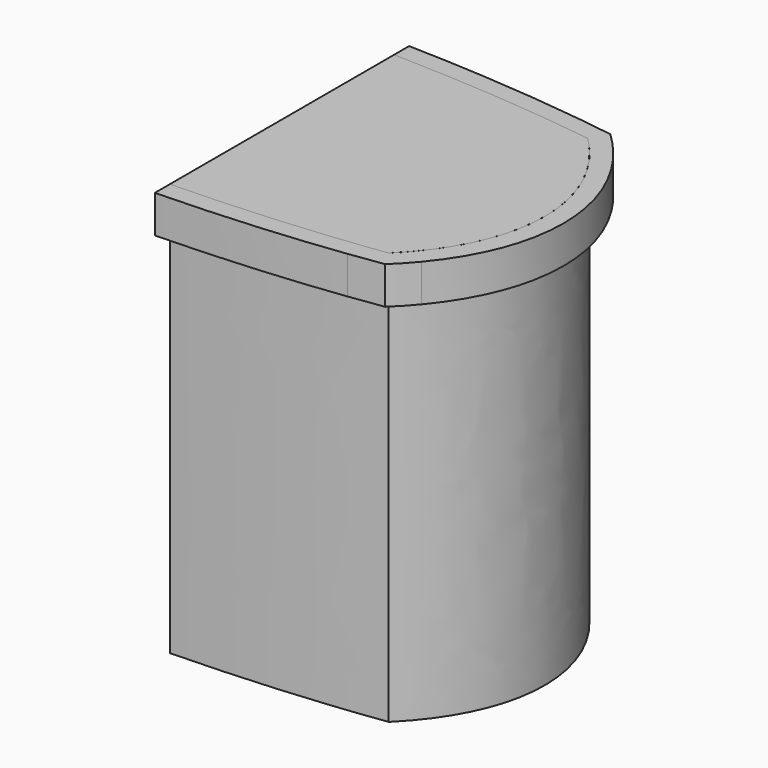
from build123d import *

# Parameters (mm, degrees)
F1_START = 5
F1_DEPTH = 21
F2_START = 25
F2_DEPTH = 2
F3_START = 26
F3_DEPTH = 1


with BuildPart() as f1:
    # F0 (on Top) → F1 (new body)
    with BuildSketch(Plane.XY.offset(F1_START)):
        with BuildLine():
            Line((2.5, 0), (2.5, -7.471590807))
            add(Edge.make_bspline(
                [(2.5, -7.471590807), (8.3249735983, -7.3389528818), (13.4886153342, -6.6233121014)],
                knots=[1.6578628091, 1.6578628091, 1.6578628091, 2.0591461343, 2.0591461343, 2.0591461343], degree=2, weights=[1, 0.9799388974, 1]))
            add(Edge.make_bspline(
                [(13.4886153342, -6.6233121014), (16.5, -3.6442045908), (16.5, 0)],
                knots=[5.6694315423, 5.6694315423, 5.6694315423, 6.2831853072, 6.2831853072, 6.2831853072], degree=2, weights=[1, 0.9532816579, 1]))
            Line((16.5, 0), (2.5, 0))
        make_face()
        with BuildLine():
            add(Edge.make_bspline(
                [(13.4886153342, 6.6233121014), (8.3249735983, 7.3389528818), (2.5, 7.471590807)],
                knots=[4.2240391728, 4.2240391728, 4.2240391728, 4.625322498, 4.625322498, 4.625322498], degree=2, weights=[1, 0.9799388974, 1]))
            Line((2.5, 7.471590807), (2.5, 0))
            Line((2.5, 0), (16.5, 0))
            add(Edge.make_bspline(
                [(16.5, 0), (16.5, 3.6442045908), (13.4886153342, 6.6233121014)],
                knots=[0, 0, 0, 0.6137537649, 0.6137537649, 0.6137537649], degree=2, weights=[1, 0.9532816579, 1]))
        make_face()
    extrude(amount=F1_DEPTH)

    # F0 (on Top) → F2 (join)
    with BuildSketch(Plane.XY.offset(F2_START)):
        with BuildLine():
            add(Edge.make_bspline(
                [(2.5, -7.471590807), (8.3249735983, -7.3389528818), (13.4886153342, -6.6233121014)],
                knots=[1.6578628091, 1.6578628091, 1.6578628091, 2.0591461343, 2.0591461343, 2.0591461343], degree=2, weights=[1, 0.9799388974, 1]))
            Line((2.5, -7.471590807), (2.5, -8.4699348237))
            add(Edge.make_bspline(
                [(2.5, -8.4699348237), (7.5558884443, -8.3481140554), (12.1846448126, -7.754376938)],
                knots=[1.6549291585, 1.6549291585, 1.6549291585, 1.9927766821, 1.9927766821, 1.9927766821], degree=2, weights=[1, 0.9857662766, 1]))
            add(Edge.make_bspline(
                [(12.1846448126, -7.754376938), (12.887920486, -7.217568476), (13.4886153342, -6.6233121014)],
                knots=[5.5431775409, 5.5431775409, 5.5431775409, 5.6694315423, 5.6694315423, 5.6694315423], degree=2, weights=[1, 0.9980081525, 1]))
        make_face()
        with BuildLine():
            Line((2.5, 8.4699348237), (2.5, 7.471590807))
            add(Edge.make_bspline(
                [(13.4886153342, 6.6233121014), (8.3249735983, 7.3389528818), (2.5, 7.471590807)],
                knots=[4.2240391728, 4.2240391728, 4.2240391728, 4.625322498, 4.625322498, 4.625322498], degree=2, weights=[1, 0.9799388974, 1]))
            add(Edge.make_bspline(
                [(13.4886153342, 6.6233121014), (12.887920486, 7.217568476), (12.1846448126, 7.754376938)],
                knots=[0.6137537649, 0.6137537649, 0.6137537649, 0.7400077663, 0.7400077663, 0.7400077663], degree=2, weights=[1, 0.9980081525, 1]))
            add(Edge.make_bspline(
                [(12.1846448126, 7.754376938), (7.5558884443, 8.3481140554), (2.5, 8.4699348237)],
                knots=[4.290408625, 4.290408625, 4.290408625, 4.6282561487, 4.6282561487, 4.6282561487], degree=2, weights=[1, 0.9857662766, 1]))
        make_face()
        with BuildLine():
            add(Edge.make_bspline(
                [(13.4886153342, -6.6233121014), (14.2775033671, -6.5139783257), (15.0388497278, -6.3920789177)],
                knots=[2.0591461343, 2.0591461343, 2.0591461343, 2.1212693394, 2.1212693394, 2.1212693394], degree=2, weights=[1, 0.9995176272, 1]))
            add(Edge.make_bspline(
                [(15.0388497278, -6.3920789177), (17.5, -3.4377792084), (17.5, 0)],
                knots=[2.6048186996, 2.6048186996, 2.6048186996, 3.1415926536, 3.1415926536, 3.1415926536], degree=2, weights=[1, 0.9641998863, 1]))
            Line((17.5, 0), (16.5, 0))
            add(Edge.make_bspline(
                [(13.4886153342, -6.6233121014), (16.5, -3.6442045908), (16.5, 0)],
                knots=[5.6694315423, 5.6694315423, 5.6694315423, 6.2831853072, 6.2831853072, 6.2831853072], degree=2, weights=[1, 0.9532816579, 1]))
        make_face()
        with BuildLine():
            add(Edge.make_bspline(
                [(17.5, 0), (17.5, 3.4377792084), (15.0388497278, 6.3920789177)],
                knots=[3.1415926536, 3.1415926536, 3.1415926536, 3.6783666076, 3.6783666076, 3.6783666076], degree=2, weights=[1, 0.9641998863, 1]))
            add(Edge.make_bspline(
                [(15.0388497278, 6.3920789177), (14.2775033671, 6.5139783257), (13.4886153342, 6.6233121014)],
                knots=[4.1619159677, 4.1619159677, 4.1619159677, 4.2240391728, 4.2240391728, 4.2240391728], degree=2, weights=[1, 0.9995176272, 1]))
            add(Edge.make_bspline(
                [(16.5, 0), (16.5, 3.6442045908), (13.4886153342, 6.6233121014)],
                knots=[0, 0, 0, 0.6137537649, 0.6137537649, 0.6137537649], degree=2, weights=[1, 0.9532816579, 1]))
            Line((16.5, 0), (17.5, 0))
        make_face()
        with BuildLine():
            add(Edge.make_bspline(
                [(12.1846448126, -7.754376938), (13.1074585373, -7.6360063181), (14, -7.5)],
                knots=[1.9927766821, 1.9927766821, 1.9927766821, 2.060753653, 2.060753653, 2.060753653], degree=2, weights=[1, 0.999422447, 1]))
            add(Edge.make_bspline(
                [(14, -7.5), (14.5608500358, -6.9658571088), (15.0388497278, -6.3920789177)],
                knots=[2.4980915448, 2.4980915448, 2.4980915448, 2.6048186996, 2.6048186996, 2.6048186996], degree=2, weights=[1, 0.9985765022, 1]))
            add(Edge.make_bspline(
                [(13.4886153342, -6.6233121014), (14.2775033671, -6.5139783257), (15.0388497278, -6.3920789177)],
                knots=[2.0591461343, 2.0591461343, 2.0591461343, 2.1212693394, 2.1212693394, 2.1212693394], degree=2, weights=[1, 0.9995176272, 1]))
            add(Edge.make_bspline(
                [(12.1846448126, -7.754376938), (12.887920486, -7.217568476), (13.4886153342, -6.6233121014)],
                knots=[5.5431775409, 5.5431775409, 5.5431775409, 5.6694315423, 5.6694315423, 5.6694315423], degree=2, weights=[1, 0.9980081525, 1]))
        make_face()
        with BuildLine():
            add(Edge.make_bspline(
                [(15.0388497278, 6.3920789177), (14.5608500358, 6.9658571088), (14, 7.5)],
                knots=[3.6783666076, 3.6783666076, 3.6783666076, 3.7850937624, 3.7850937624, 3.7850937624], degree=2, weights=[1, 0.9985765022, 1]))
            add(Edge.make_bspline(
                [(14, 7.5), (13.1074585373, 7.6360063181), (12.1846448126, 7.754376938)],
                knots=[4.2224316541, 4.2224316541, 4.2224316541, 4.290408625, 4.290408625, 4.290408625], degree=2, weights=[1, 0.999422447, 1]))
            add(Edge.make_bspline(
                [(13.4886153342, 6.6233121014), (12.887920486, 7.217568476), (12.1846448126, 7.754376938)],
                knots=[0.6137537649, 0.6137537649, 0.6137537649, 0.7400077663, 0.7400077663, 0.7400077663], degree=2, weights=[1, 0.9980081525, 1]))
            add(Edge.make_bspline(
                [(15.0388497278, 6.3920789177), (14.2775033671, 6.5139783257), (13.4886153342, 6.6233121014)],
                knots=[4.1619159677, 4.1619159677, 4.1619159677, 4.2240391728, 4.2240391728, 4.2240391728], degree=2, weights=[1, 0.9995176272, 1]))
        make_face()
    extrude(amount=F2_DEPTH)


with BuildPart() as f3:
    # F0 (on Top) → F3 (new body)
    with BuildSketch(Plane.XY.offset(F3_START)):
        with BuildLine():
            add(Edge.make_bspline(
                [(13.4886153342, 6.6233121014), (8.3249735983, 7.3389528818), (2.5, 7.471590807)],
                knots=[4.2240391728, 4.2240391728, 4.2240391728, 4.625322498, 4.625322498, 4.625322498], degree=2, weights=[1, 0.9799388974, 1]))
            Line((2.5, 7.471590807), (2.5, 0))
            Line((2.5, 0), (16.5, 0))
            add(Edge.make_bspline(
                [(16.5, 0), (16.5, 3.6442045908), (13.4886153342, 6.6233121014)],
                knots=[0, 0, 0, 0.6137537649, 0.6137537649, 0.6137537649], degree=2, weights=[1, 0.9532816579, 1]))
        make_face()
        with BuildLine():
            Line((2.5, 0), (2.5, -7.471590807))
            add(Edge.make_bspline(
                [(2.5, -7.471590807), (8.3249735983, -7.3389528818), (13.4886153342, -6.6233121014)],
                knots=[1.6578628091, 1.6578628091, 1.6578628091, 2.0591461343, 2.0591461343, 2.0591461343], degree=2, weights=[1, 0.9799388974, 1]))
            add(Edge.make_bspline(
                [(13.4886153342, -6.6233121014), (16.5, -3.6442045908), (16.5, 0)],
                knots=[5.6694315423, 5.6694315423, 5.6694315423, 6.2831853072, 6.2831853072, 6.2831853072], degree=2, weights=[1, 0.9532816579, 1]))
            Line((16.5, 0), (2.5, 0))
        make_face()
    extrude(amount=F3_DEPTH)


solid = Compound([f1.part, f3.part])
